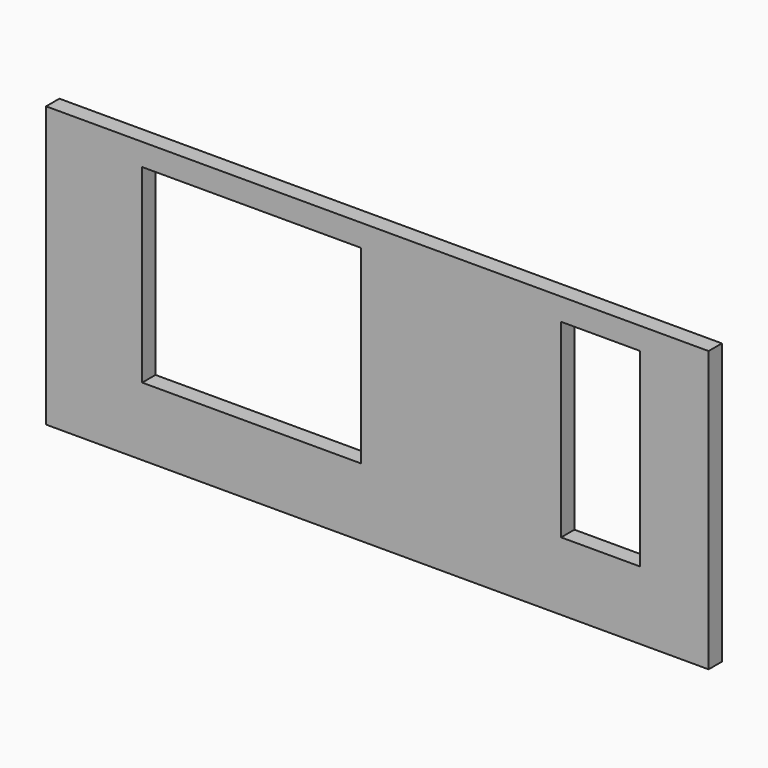
from build123d import *

# Parameters (mm, degrees)
F0_W     = 1970
F0_H     = 1710
F0_W_2   = 710
F0_W_3   = 619
F0_H_2   = 615
F0_W_4   = 866
F1_DEPTH = 150


with BuildPart() as f1:
    # F0 (on Front) → F1 (new body)
    with BuildSketch(Plane.XZ):
        Polygon((866, 615), (866, 0), (5351, 0), (5351, 615), (5970, 615), (5970, 2525), (0, 2525), (0, 615), align=None)
        with Locations((1851, 1470)):
            Rectangle(F0_W, F0_H, mode=Mode.SUBTRACT)
        with Locations((4996, 1470)):
            Rectangle(F0_W_2, F0_H, mode=Mode.SUBTRACT)
        with Locations((5660.5, 307.5)):
            Rectangle(F0_W_3, F0_H_2)
        with Locations((433, 307.5)):
            Rectangle(F0_W_4, F0_H_2)
    extrude(amount=F1_DEPTH)


solid = f1.part
